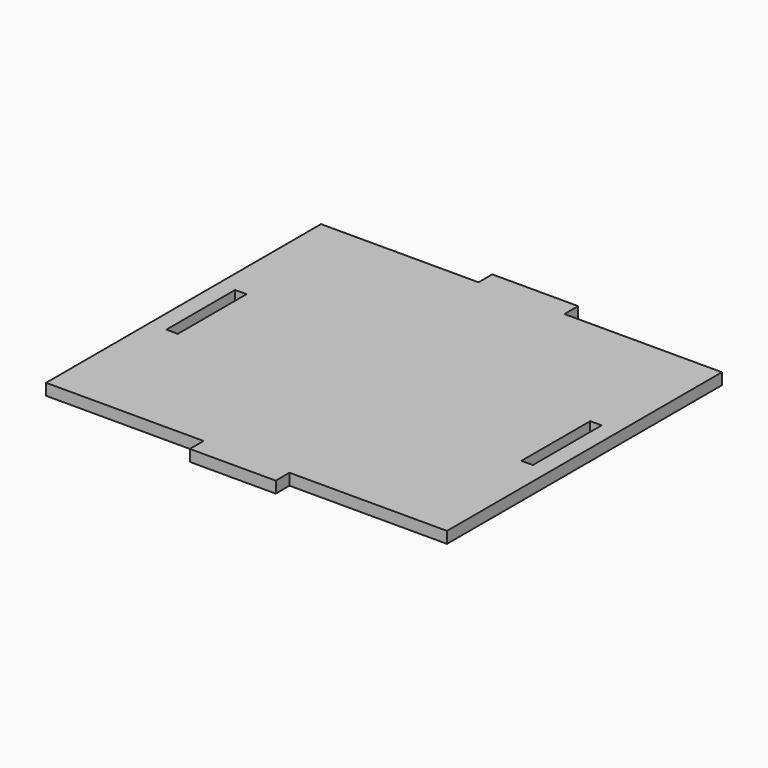
from build123d import *

# Parameters (mm, degrees)
SKETCH_W     = 70
SKETCH_H     = 60
SKETCH_W_2   = 15
SKETCH_H_2   = 3
PAD_DEPTH    = 2
SKETCH001_W  = 2
SKETCH001_H  = 15
POCKET_DEPTH = 2


with BuildPart() as part:
    # Sketch → Pad (new body)
    with BuildSketch(Plane.XY):
        with Locations((35, 30)):
            Rectangle(SKETCH_W, SKETCH_H)
        with Locations((35, 61.5)):
            Rectangle(SKETCH_W_2, SKETCH_H_2)
        with Locations((35, -1.5)):
            Rectangle(SKETCH_W_2, SKETCH_H_2)
    extrude(amount=PAD_DEPTH)

    # Sketch001 → Pocket (cut)
    with BuildSketch(Plane.XY):
        with Locations((66, 30)):
            Rectangle(SKETCH001_W, SKETCH001_H)
        with Locations((4, 30)):
            Rectangle(SKETCH001_W, SKETCH001_H)
    extrude(amount=POCKET_DEPTH, mode=Mode.SUBTRACT)


solid = part.part
